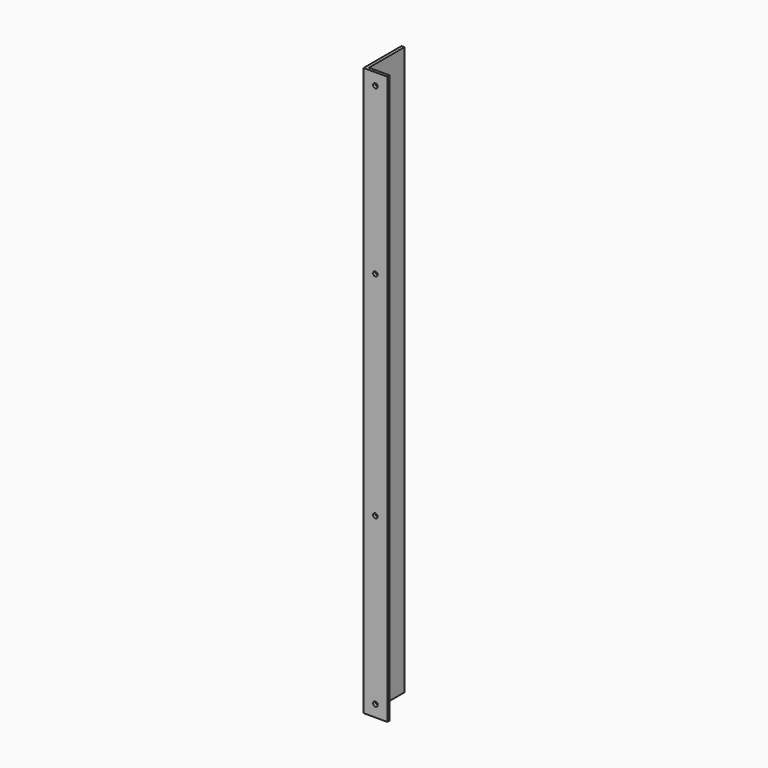
from build123d import *

# Parameters (mm, degrees)
F1_DEPTH = 609.6
F2_R     = 2.4765
F3_DEPTH = 50.801


with BuildPart() as f1:
    # F0 (on Top) → F1 (new body)
    with BuildSketch(Plane.XY):
        Polygon((0, 0), (0, 47.625), (-3.175, 47.625), (-3.175, -3.175), (22.225, -3.175), (22.225, 0), align=None)
    extrude(amount=F1_DEPTH)

    # F2 (on face) → F3 (cut, through all)
    with BuildSketch(Plane.XZ.offset(3.175)):
        with Locations((9.525, 12.7)):
            Circle(F2_R)
        with Locations((9.525, 190.5)):
            Circle(F2_R)
        with Locations((9.525, 419.1)):
            Circle(F2_R)
        with Locations((9.525, 596.9)):
            Circle(F2_R)
    extrude(amount=-F3_DEPTH, mode=Mode.SUBTRACT)


solid = f1.part
